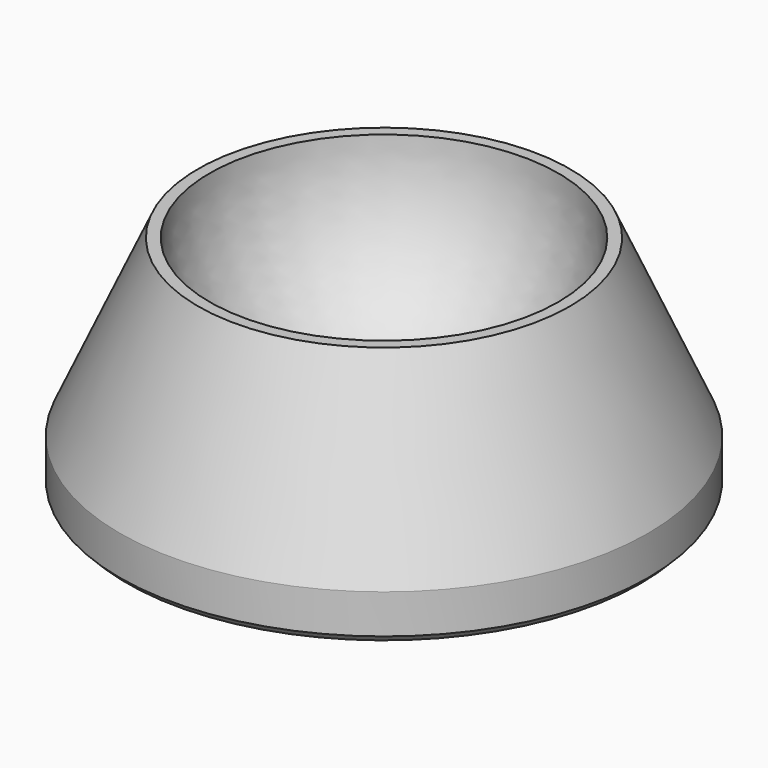
from build123d import *

# Parameters (mm, degrees)
F2_SIZE = 0.396875


with BuildPart() as f1:
    # F0 (on Front) → F1 (revolve)
    with BuildSketch(Plane.XZ):
        with BuildLine():
            Line((0, 2.54), (0, 0))
            Line((0, 0), (14.4272, 0))
            Line((14.4272, 0), (14.4272, 2.54))
            Line((14.4272, 2.54), (10.16, 12.065))
            Line((10.16, 12.065), (9.525, 12.065))
            ThreePointArc((9.525, 12.065), (6.735192, 5.329808), (0, 2.54))
        make_face()
    revolve(axis=Axis((0, 0, 7.3025), (0, 0, -1)))

    # F2
    f2_edges = [f1.edges().sort_by_distance(p)[0] for p in [
        (-14.4272, 0, 0),
    ]]
    chamfer(f2_edges, length=F2_SIZE)


solid = f1.part
